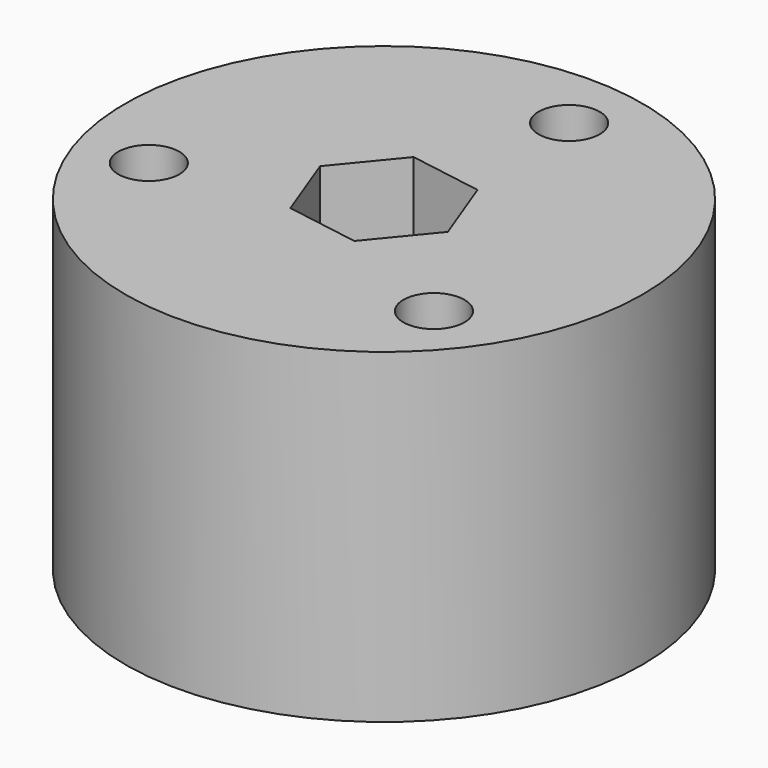
from build123d import *

# Parameters (mm, degrees)
F0_R     = 12.7
F1_DEPTH = 16
F3_D     = 3
F5_DEPTH = 11
F6_R     = 4
F7_DEPTH = 3


with BuildPart() as f1:
    # F0 (on Top) → F1 (new body)
    with BuildSketch(Plane.XY):
        Circle(F0_R)
    extrude(amount=F1_DEPTH)

    # F3 (through all)
    with Locations(Plane.XY.offset(16)):
        with Locations((-8.909959, -3.295851), (1.600689, 9.364176), (7.30927, -6.068325)):
            Hole(F3_D / 2)

    # F4 (on face) → F5 (cut)
    with BuildSketch(Plane.XY.offset(16)):
        Polygon((3.616691, -0.600319), (2.328237, 2.831986), (-1.288454, 3.432305), (-3.616691, 0.600319), (-2.328237, -2.831986), (1.288454, -3.432305), align=None)
    extrude(amount=-F5_DEPTH, mode=Mode.SUBTRACT)

    # F6 (on face) → F7 (join)
    with BuildSketch(Plane(origin=(0, 0, 0), x_dir=(1, 0, 0), z_dir=(0, 0, -1))):
        Circle(F6_R)
    extrude(amount=F7_DEPTH)


solid = f1.part
